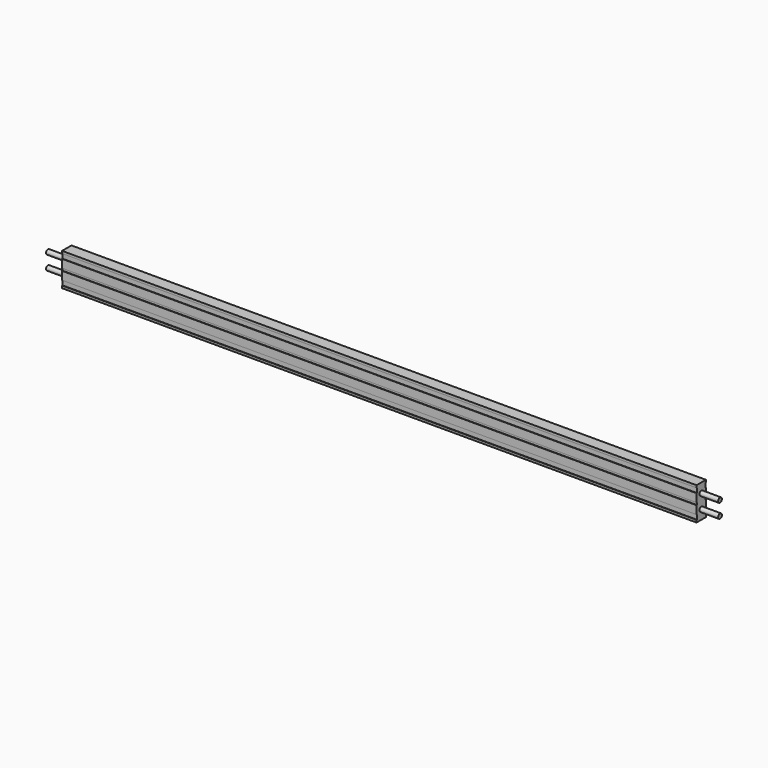
from build123d import *

# Parameters (mm, degrees)
PAD_DEPTH    = 2700
SKETCH_R     = 10
PAD001_DEPTH = 80
SKETCH002_R  = 10
PAD002_DEPTH = 80


with BuildPart() as part:
    # Sketch001 → Pad (new body)
    with BuildSketch(Plane.YZ):
        Polygon((0, 0), (0, -10), (2, -10), (2, -30), (0, -30), (0, -65), (2, -65), (2, -75), (0, -75), (0, -110), (2, -110), (2, -130), (0, -130), (0, -140), (50, -140), (50, -130), (48, -130), (48, -110), (50, -110), (50, -75), (48, -75), (48, -65), (50, -65), (50, -30), (48, -30), (48, -10), (50, -10), (50, 0), align=None)
    extrude(amount=PAD_DEPTH)

    # Sketch (on Face29 of Pad) → Pad001 (join)
    with BuildSketch(Plane(origin=(0, 0, 0), x_dir=(0, 1, 0), z_dir=(-1, 0, 0))):
        with Locations((25, 100)):
            Circle(SKETCH_R)
        with Locations((25, 40)):
            Circle(SKETCH_R)
    extrude(amount=PAD001_DEPTH)

    # Sketch002 (on Face5 of Pad001) → Pad002 (join)
    with BuildSketch(Plane.YZ.offset(2700)):
        with Locations((25, -40)):
            Circle(SKETCH002_R)
        with Locations((25, -100)):
            Circle(SKETCH002_R)
    extrude(amount=PAD002_DEPTH)


solid = part.part
